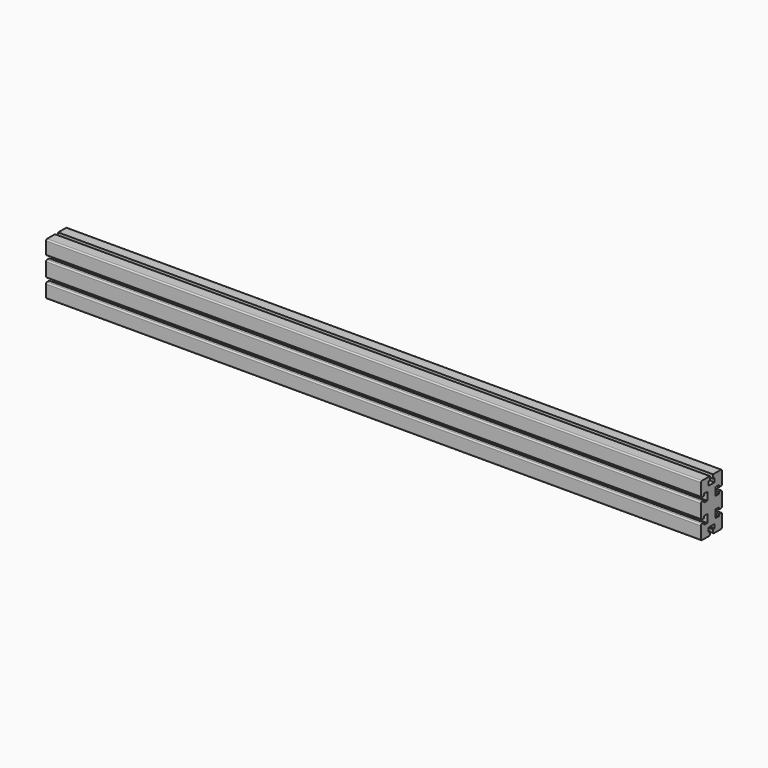
from build123d import *

# Parameters (mm, degrees)
F1_DEPTH = 1000
F2_R     = 2


with BuildPart() as f1:
    # F0 (on Right) → F1 (new body)
    with BuildSketch(Plane.YZ):
        Polygon((-3, 40), (-20, 40), (-20, 18), (-14.000001, 18), (-14.000001, 21), (-8.000001, 21), (-8, 9), (-14, 9), (-14, 12), (-20, 12), (-20, -12), (-14, -12), (-14, -9), (-8, -9), (-8, -21), (-14, -21), (-14, -18), (-20, -18), (-20, -40), (-3, -40), (-3.000028, -34), (-6.000028, -34), (-6.000028, -28), (5.999972, -28), (5.999972, -34), (2.999972, -34), (3, -40), (20, -40), (20, -18), (14, -18), (14, -21), (8, -21), (8, -9), (14, -9), (14, -12), (20, -12), (20, 12), (14, 12), (14, 9), (8, 9), (8, 21), (14, 21), (14, 18), (20, 18), (20, 40), (3, 40), (3, 34), (6, 34), (6, 28), (-6, 28), (-6, 34), (-3, 34), align=None)
    extrude(amount=F1_DEPTH)

    # F2
    f2_edges = [f1.edges().sort_by_distance(p)[0] for p in [
        (500, -20, 40),
        (500, -20, 18),
        (500, -20, 12),
        (500, -20, -12),
        (500, -20, -18),
        (500, -20, -40),
        (500, -3, -40),
        (500, 3, -40),
        (500, 20, -40),
        (500, 20, -18),
        (500, 20, 12),
        (500, 20, -12),
        (500, 20, 40),
        (500, 20, 18),
    ]]
    fillet(f2_edges, radius=F2_R)


solid = f1.part
